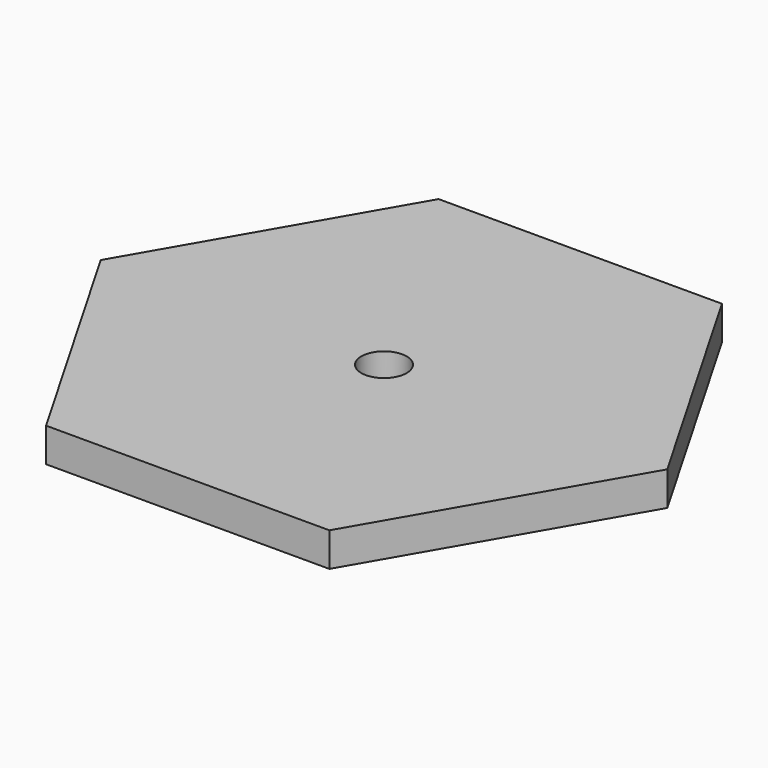
from build123d import *

# Parameters (mm, degrees)
F0_R     = 20
F1_DEPTH = 30
F2_R     = 5


with BuildPart() as f1:
    # F0 (on Top) → F1 (new body)
    with BuildSketch(Plane.XY):
        Polygon((-48.440682, -418.919696), (76.559318, -635.426047), (326.559318, -635.426047), (451.559318, -418.919696), (326.559318, -202.413345), (76.559318, -202.413345), align=None)
        with Locations((201.559318, -418.919696)):
            Circle(F0_R, mode=Mode.SUBTRACT)
    extrude(amount=F1_DEPTH)

    # F2
    f2_edges = [f1.edges().sort_by_distance(p)[0] for p in [
        (181.559318, -418.919696, 0),
    ]]
    fillet(f2_edges, radius=F2_R)


solid = f1.part
